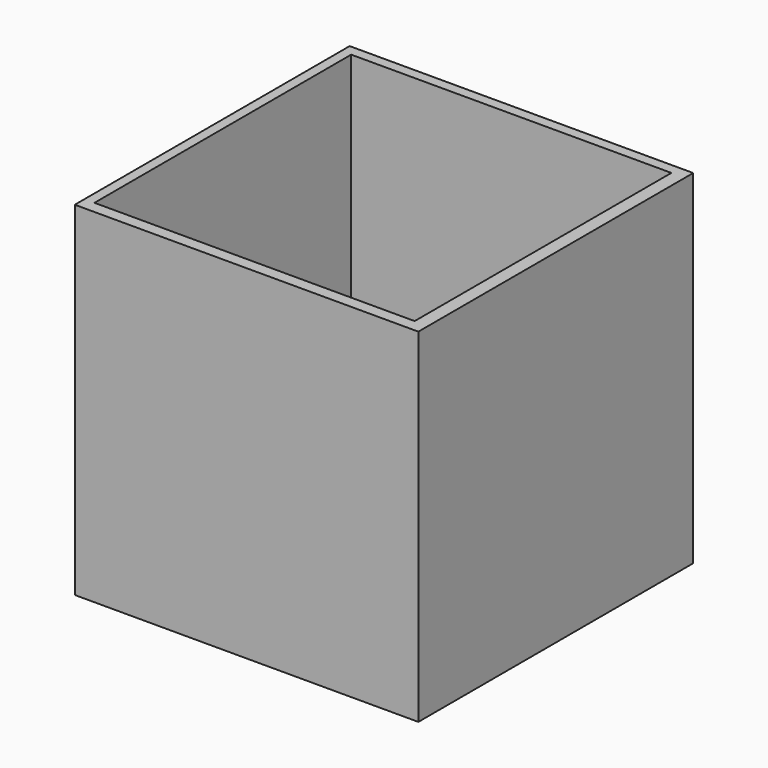
from build123d import *

# Parameters (mm, degrees)
F0_W       = 101.6
F0_H       = 101.6
F1_DEPTH   = 101.6
F2_W       = 94.6816899814
F2_H       = 94.8944
F1_FACE1_W = 101.6
F1_FACE1_H = 101.6
F3_DEPTH   = 95.25


with BuildPart() as f1:
    # F0 (on Front) → F1 (new body)
    with BuildSketch(Plane.XZ):
        with Locations((-50.8, 50.8)):
            Rectangle(F0_W, F0_H)
    extrude(amount=F1_DEPTH)

    # F2 (on face) + F1_face1 (on face) → F3 (cut)
    with BuildSketch(Plane.XY.offset(101.6)):
        with Locations((-51.3106982689, -50.5612836483)):
            Rectangle(F2_W, F2_H)
    with BuildSketch(Plane(origin=(-50.8, -50.8, 0), x_dir=(1, 0, 0), z_dir=(0, 0, -1))):
        Rectangle(F1_FACE1_W, F1_FACE1_H)
    extrude(amount=-F3_DEPTH, dir=(0, 0, 1), mode=Mode.SUBTRACT)


solid = f1.part
